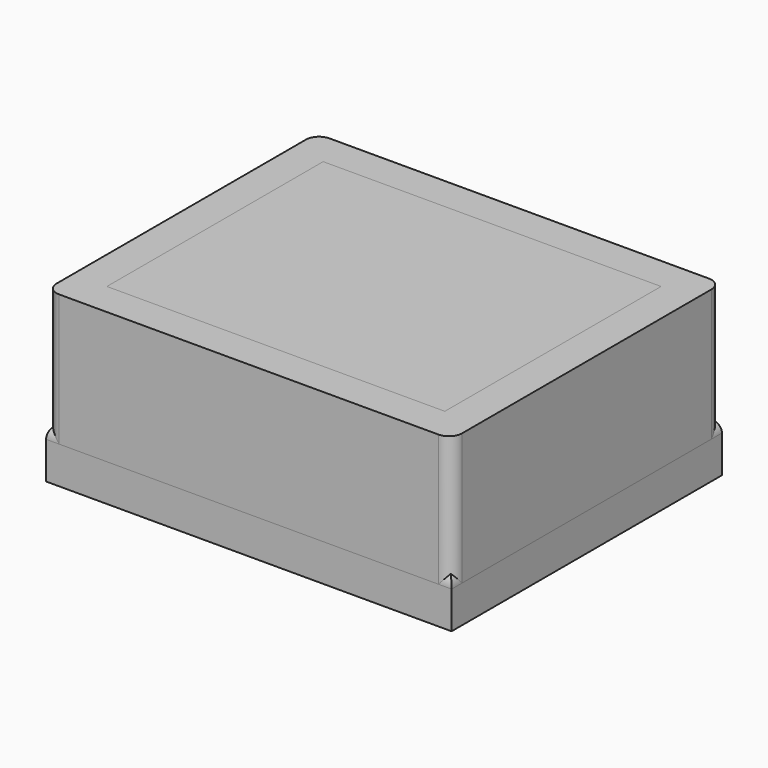
from build123d import *

# Parameters (mm, degrees)
F0_W     = 76.2
F0_H     = 63.5
F0_W_2   = 63.5
F0_H_2   = 50.8
F1_DEPTH = 31.75
F2_DEPTH = 6.35
F3_R     = 2.452841
F4_DEPTH = 10.16
F5_R     = 3.175
F6_DEPTH = 31.75


with BuildPart() as f1:
    # F0 (on Top) → F1 (new body)
    with BuildSketch(Plane.XY):
        Rectangle(F0_W, F0_H)
        Rectangle(F0_W_2, F0_H_2, mode=Mode.SUBTRACT)
    extrude(amount=F1_DEPTH)

    # F0 (on Top) → F2 (join)
    with BuildSketch(Plane.XY):
        Rectangle(F0_W_2, F0_H_2)
    extrude(amount=F2_DEPTH)

    # F3
    f3_edges = [f1.edges().sort_by_distance(p)[0] for p in [
        (-38.1, 31.75, 15.875),
        (38.1, 31.75, 15.875),
        (38.1, -31.75, 15.875),
        (-38.1, -31.75, 15.875),
    ]]
    fillet(f3_edges, radius=F3_R)


with BuildPart() as f4:
    # F0 (on Top) → F4 (new body)
    with BuildSketch(Plane.XY):
        Rectangle(F0_W, F0_H)
        Rectangle(F0_W_2, F0_H_2, mode=Mode.SUBTRACT)
        Rectangle(F0_W_2, F0_H_2)
    extrude(amount=F4_DEPTH)

    # F5
    f5_edges = [f4.edges().sort_by_distance(p)[0] for p in [
        (0, -31.75, 10.16),
        (-38.1, 0, 10.16),
        (38.1, 0, 10.16),
        (0, 31.75, 10.16),
    ]]
    fillet(f5_edges, radius=F5_R)


with BuildPart() as f6:
    # F0 (on Top) → F6 (new body)
    with BuildSketch(Plane.XY):
        Rectangle(F0_W_2, F0_H_2)
    extrude(amount=F6_DEPTH)


solid = Compound([f1.part, f4.part, f6.part])
